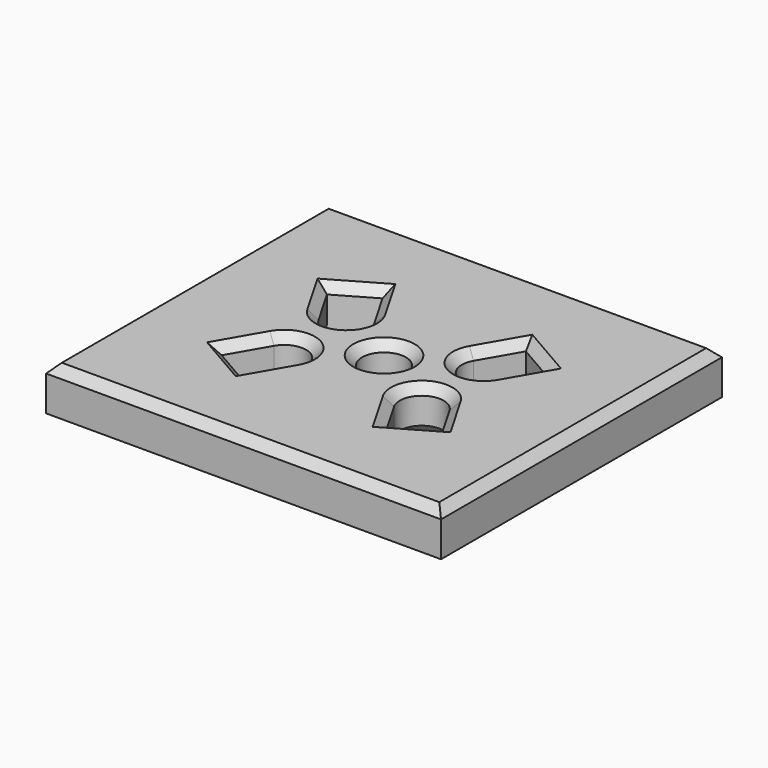
from build123d import *

# Parameters (mm, degrees)
SKETCH_W      = 90
SKETCH_H      = 80
SKETCH_R      = 5
EXTRUDE_DEPTH = 10
CHAMFER_SIZE  = 2


with BuildPart() as part:
    # Sketch → Extrude (new body)
    with BuildSketch(Plane.XY):
        with Locations((45, 40)):
            Rectangle(SKETCH_W, SKETCH_H)
        with Locations((45, 40)):
            Circle(SKETCH_R, mode=Mode.SUBTRACT)
        with BuildLine():
            Line((28.660254, 60), (33.660254, 51.339746))
            ThreePointArc((25, 46.339746), (31.830127, 44.509619), (33.660254, 51.339746))
            Line((25, 46.339746), (20, 55))
            Line((20, 55), (28.660254, 60))
        make_face(mode=Mode.SUBTRACT)
        with BuildLine():
            Line((56.339746, 51.339746), (61.339746, 60))
            Line((61.339746, 60), (70, 55))
            Line((70, 55), (65, 46.339746))
            ThreePointArc((56.339746, 51.339746), (58.169873, 44.509619), (65, 46.339746))
        make_face(mode=Mode.SUBTRACT)
        with BuildLine():
            Line((65, 33.660254), (70, 25))
            Line((70, 25), (61.339746, 20))
            Line((61.339746, 20), (56.339746, 28.660254))
            ThreePointArc((65, 33.660254), (58.169873, 35.490381), (56.339746, 28.660254))
        make_face(mode=Mode.SUBTRACT)
        with BuildLine():
            Line((20, 25), (25, 33.660254))
            ThreePointArc((33.660254, 28.660254), (31.830127, 35.490381), (25, 33.660254))
            Line((33.660254, 28.660254), (28.660254, 20))
            Line((28.660254, 20), (20, 25))
        make_face(mode=Mode.SUBTRACT)
    extrude(amount=EXTRUDE_DEPTH)

    # Chamfer
    chamfer_edges = [part.edges().sort_by_distance(p)[0] for p in [
        (45, 0, 10),
        (90, 40, 10),
        (45, 80, 10),
        (0, 40, 10),
        (31.160254, 24.330127, 0),
        (24.330127, 22.5, 10),
        (22.5, 29.330127, 10),
        (65, 33.660254, 5),
        (67.5, 29.330127, 0),
        (65.669873, 22.5, 10),
        (58.839746, 24.330127, 10),
        (56.339746, 51.339746, 5),
        (58.839746, 55.669873, 0),
        (65.669873, 57.5, 10),
        (67.5, 50.669873, 10),
        (25, 46.339746, 5),
        (22.5, 50.669873, 0),
        (24.330127, 57.5, 10),
        (31.160254, 55.669873, 10),
        (50, 40, 5),
        (40, 40, 10),
    ]]
    chamfer(chamfer_edges, length=CHAMFER_SIZE)


solid = part.part
